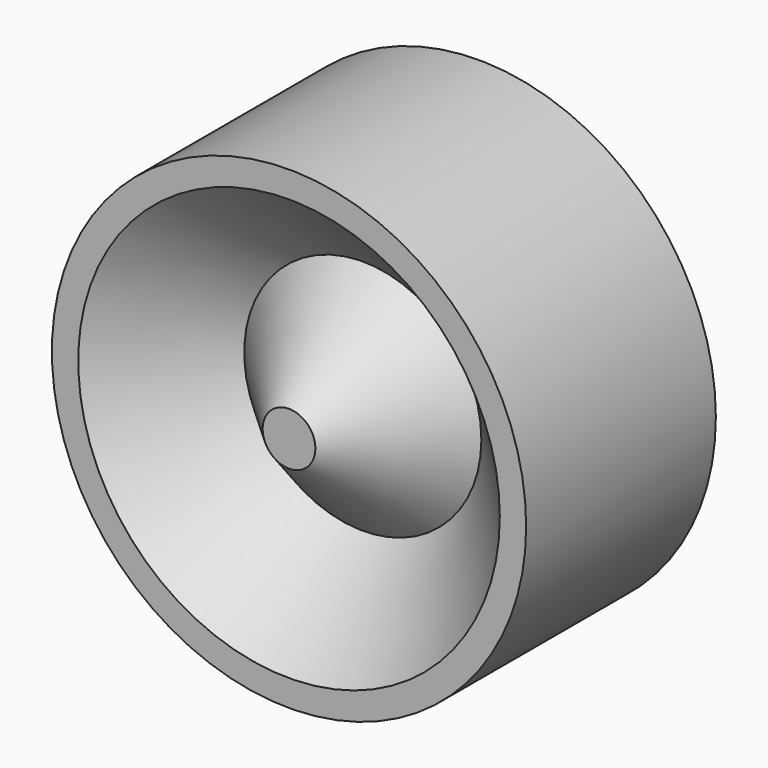
from build123d import *


with BuildPart() as f1:
    # F0 (on Top) → F1 (revolve)
    with BuildSketch(Plane.XY):
        Polygon((4, 0), (0, 0), (0, -36), (4, -36), (18, -22), (32, -36), (36, -36), (36, 0), (32, 0), (18, -14), align=None)
        Polygon((16.343146, -18), (4, -30.343146), (4, -5.656854), align=None, mode=Mode.SUBTRACT)
        Polygon((32, -30.343146), (19.656854, -18), (32, -5.656854), align=None, mode=Mode.SUBTRACT)
        Polygon((4, -5.656854), (4, -30.343146), (16.343146, -18), align=None)
        Polygon((32, -5.656854), (19.656854, -18), (32, -30.343146), align=None)
    revolve(axis=Axis((0, -18, 0), (0, -1, 0)))


solid = f1.part
